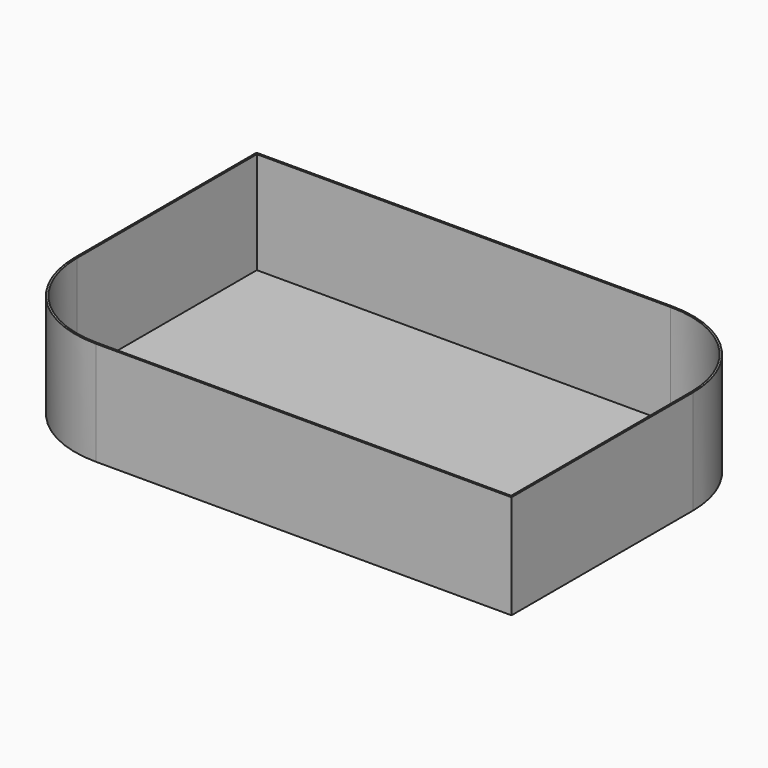
from build123d import *

# Parameters (mm, degrees)
F1_DEPTH = 22
F2_T     = -0.4


with BuildPart() as f1:
    # F0 (on Top) → F1 (new body)
    with BuildSketch(Plane.XY):
        with BuildLine():
            ThreePointArc((55, 13), (48.556349, 28.556349), (33, 35))
            Line((33, 35), (-55, 35))
            Line((-55, 35), (-55, -13))
            ThreePointArc((-55, -13), (-48.556349, -28.556349), (-33, -35))
            Line((-33, -35), (55, -35))
            Line((55, -35), (55, 13))
        make_face()
    extrude(amount=F1_DEPTH)

    # F2
    f2_openings = [f1.faces().sort_by_distance(p)[0] for p in [
        (0, 0, 22),
    ]]
    offset(amount=F2_T, openings=f2_openings)


solid = f1.part
